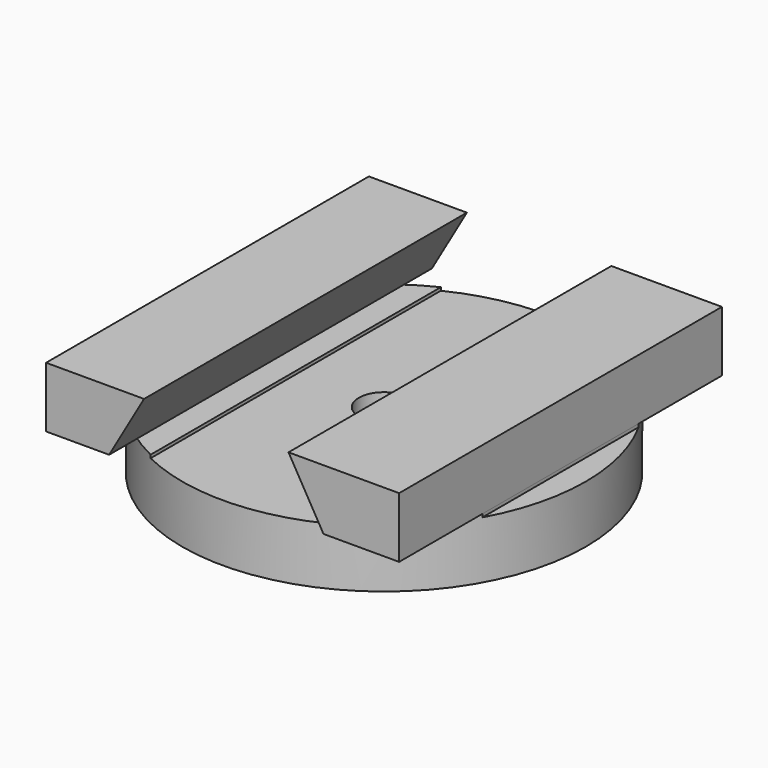
from build123d import *

# Parameters (mm, degrees)
F0_R          = 50.8
F1_DEPTH      = 15.24
F2_D          = 12.7
F3_R          = 6.35
F4_DEPTH      = 0.7874
F6_DEPTH      = 50.8
F6_DEPTH_BACK = 50.8


with BuildPart() as f1:
    # F0 (on Top) → F1 (new body)
    with BuildSketch(Plane.XY):
        Circle(F0_R)
    extrude(amount=F1_DEPTH)

    # F2 (through all)
    with Locations(Plane(origin=(0, 0, 0), x_dir=(1, 0, 0), z_dir=(0, 0, -1))):
        with Locations((0, 0)):
            Hole(F2_D / 2)

    # F3 (on face) → F4 (cut)
    with BuildSketch(Plane.XY.offset(15.24)):
        with BuildLine():
            Line((-44.45, -24.5934442484), (-44.45, 24.5934442484))
            ThreePointArc((-44.45, 24.5934442484), (-50.8, 0), (-44.45, -24.5934442484))
        make_face()
        with BuildLine():
            ThreePointArc((50.8, 0), (49.1868884968, 12.7), (44.45, 24.5934442484))
            Line((44.45, 24.5934442484), (44.45, -24.5934442484))
            ThreePointArc((44.45, -24.5934442484), (49.1868884968, -12.7), (50.8, 0))
        make_face()
        with BuildLine():
            ThreePointArc((22.225, 45.6802952596), (0, 50.8), (-22.225, 45.6802952596))
            Line((-22.225, 45.6802952596), (-22.225, -45.6802952596))
            ThreePointArc((-22.225, -45.6802952596), (0, -50.8), (22.225, -45.6802952596))
            Line((22.225, -45.6802952596), (22.225, 45.6802952596))
        make_face()
        Circle(F3_R, mode=Mode.SUBTRACT)
    extrude(amount=-F4_DEPTH, mode=Mode.SUBTRACT)


with BuildPart() as f6:
    # F5 (on Front) → F6 (new body, two sides)
    with BuildSketch(Plane.XZ) as f6_sk:
        Polygon((16.6011818976, 30.48), (25.4, 15.24), (44.45, 15.24), (44.45, 30.48), align=None)
    extrude(amount=F6_DEPTH)
    extrude(f6_sk.sketch, amount=-F6_DEPTH_BACK)


with BuildPart() as f6b:
    # F5 (on Front) → F6, piece 2 (new body, two sides)
    with BuildSketch(Plane.XZ) as f6_2_sk:
        Polygon((-19.7761818976, 30.48), (-44.45, 30.48), (-44.45, 15.24), (-28.575, 15.24), align=None)
    extrude(amount=F6_DEPTH)
    extrude(f6_2_sk.sketch, amount=-F6_DEPTH_BACK)


solid = Compound([f1.part, f6.part, f6b.part])
